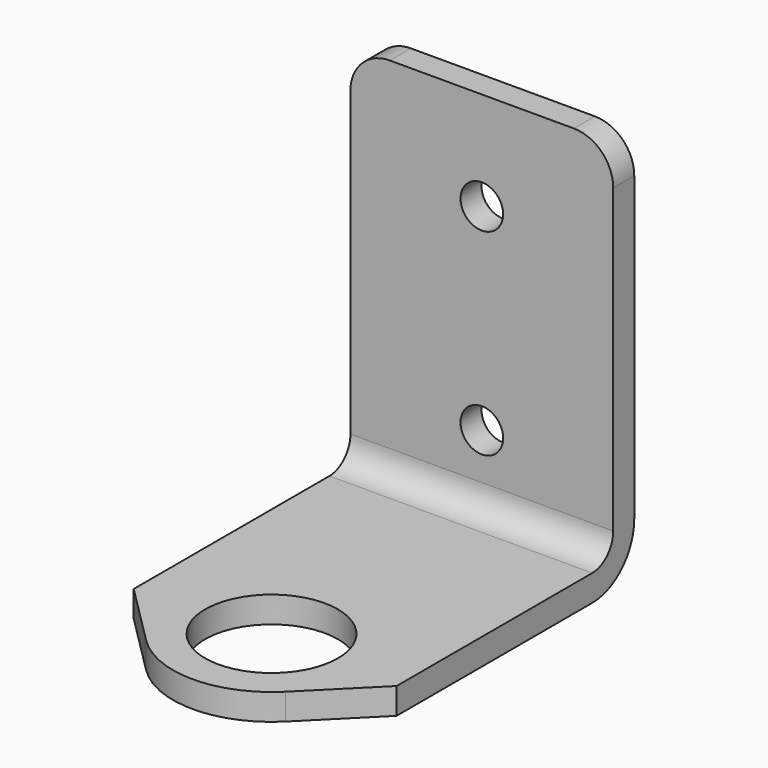
from build123d import *

# Parameters (mm, degrees)
SKETCH_R     = 5.05
PAD_DEPTH    = 2
SKETCH001_W  = 20
SKETCH001_H  = 30
SKETCH001_R  = 1.62
PAD001_DEPTH = 2
FILLET_R     = 4
FILLET001_R  = 2
FILLET002_R  = 3


with BuildPart() as part:
    # Sketch → Pad (new body)
    with BuildSketch(Plane.XY):
        with BuildLine():
            Line((-10, 0), (10, 0))
            Line((10, 0), (10, -22.61))
            Line((10, -22.61), (5.303283, -27.306717))
            ThreePointArc((-5.303283, -27.306717), (0, -29.503398), (5.303283, -27.306717))
            Line((-10, -22.61), (-5.303283, -27.306717))
            Line((-10, 0), (-10, -22.61))
        make_face()
        with Locations((0, -22.003398)):
            Circle(SKETCH_R, mode=Mode.SUBTRACT)
    extrude(amount=PAD_DEPTH)

    # Sketch001 → Pad001 (new body)
    with BuildSketch(Plane(origin=(0, 0, 0), x_dir=(-1, 0, 0), z_dir=(0, 1, 0))):
        with Locations((0, 15)):
            Rectangle(SKETCH001_W, SKETCH001_H)
        with Locations((0, 22.5)):
            Circle(SKETCH001_R, mode=Mode.SUBTRACT)
        with Locations((0, 7.5)):
            Circle(SKETCH001_R, mode=Mode.SUBTRACT)
    extrude(amount=-PAD001_DEPTH)

    # Fillet
    fillet_edges = [part.edges().sort_by_distance(p)[0] for p in [
        (0, 0, 0),
    ]]
    fillet(fillet_edges, radius=FILLET_R)

    # Fillet001
    fillet001_edges = [part.edges().sort_by_distance(p)[0] for p in [
        (0, -2, 2),
    ]]
    fillet(fillet001_edges, radius=FILLET001_R)

    # Fillet002
    fillet002_edges = [part.edges().sort_by_distance(p)[0] for p in [
        (-10, -1, 30),
        (10, -1, 30),
    ]]
    fillet(fillet002_edges, radius=FILLET002_R)


solid = part.part
